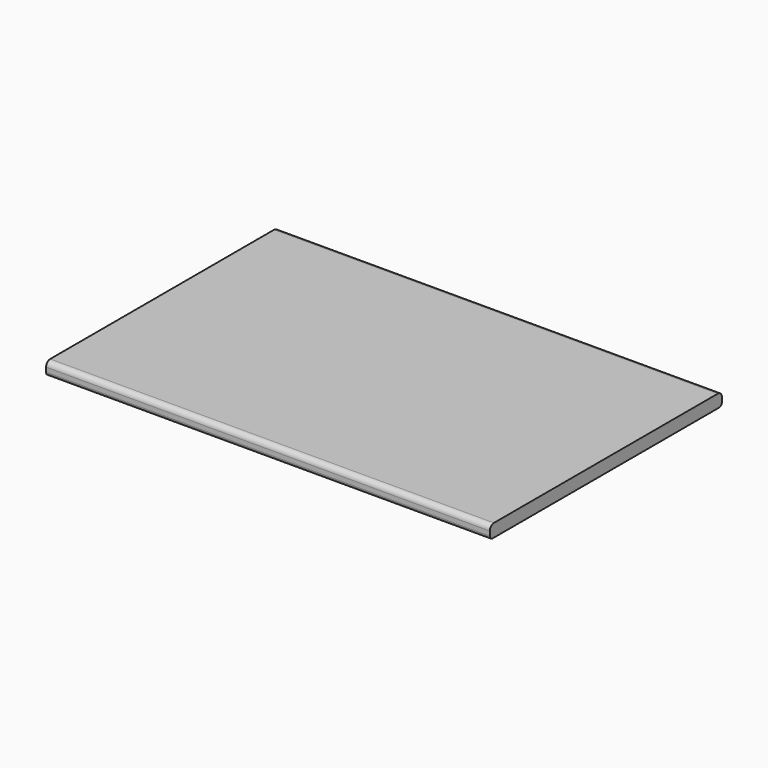
from build123d import *

# Parameters (mm, degrees)
F0_W     = 1300
F0_H     = 850
F1_DEPTH = 38
F2_R     = 15
F3_R     = 15
F4_R     = 10
F5_R     = 10


with BuildPart() as f1:
    # F0 (on Top) → F1 (new body)
    with BuildSketch(Plane.XY):
        with Locations((-51.181306, -19.237691)):
            Rectangle(F0_W, F0_H)
    extrude(amount=F1_DEPTH)

    # F2
    f2_edges = [f1.edges().sort_by_distance(p)[0] for p in [
        (-51.181306, -444.237691, 38),
    ]]
    fillet(f2_edges, radius=F2_R)

    # F3
    f3_edges = [f1.edges().sort_by_distance(p)[0] for p in [
        (-51.181306, 405.762309, 38),
    ]]
    fillet(f3_edges, radius=F3_R)

    # F4
    f4_edges = [f1.edges().sort_by_distance(p)[0] for p in [
        (-51.181306, -444.237691, 0),
    ]]
    fillet(f4_edges, radius=F4_R)

    # F5
    f5_edges = [f1.edges().sort_by_distance(p)[0] for p in [
        (-51.181306, 405.762309, 0),
    ]]
    fillet(f5_edges, radius=F5_R)


solid = f1.part
